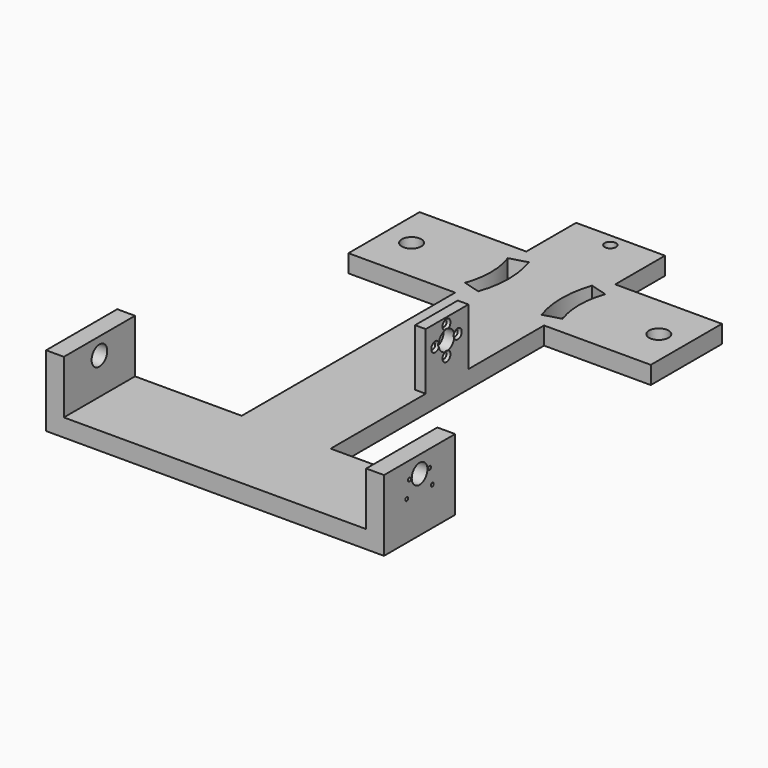
from build123d import *

# Parameters (mm, degrees)
F0_W            = 50
F0_H            = 150
F0_H_2          = 50
F0_W_2          = 60
F0_W_3          = 70
F0_H_3          = 35
F1_DEPTH        = 10
F2_W            = 10
F2_H            = 50
F3_DEPTH        = 30
F4_R            = 5.5
F5_DEPTH        = 190.001
F6_R            = 3.175
F7_DEPTH        = 10.001
F8_R            = 5.5
F9_DEPTH        = 10.001
F10_R           = 5.5
F11_DEPTH       = 10.001
F13_DEPTH       = 10.001
F14_W           = 6
F14_H           = 30
F15_DEPTH       = 32
F16_R           = 5.5
F17_DEPTH       = 76.001
F19_D           = 3.1
F19_CSINK_D     = 5.6
F19_CSINK_ANGLE = 90
F21_D           = 2
F21_DEPTH       = 30
F21_TIP         = 0.600860619


with BuildPart() as f1:
    # F0 (on Top) → F1 (new body)
    with BuildSketch(Plane.XY):
        Rectangle(F0_W, F0_H)
        with Locations((0, 100)):
            Rectangle(F0_W, F0_H_2)
        with Locations((55, 100)):
            Rectangle(F0_W_2, F0_H_2)
        with Locations((-55, 100)):
            Rectangle(F0_W_2, F0_H_2)
        with Locations((0, -100)):
            Rectangle(F0_W, F0_H_2)
        with Locations((60, -100)):
            Rectangle(F0_W_3, F0_H_2)
        with Locations((0, 142.5)):
            Rectangle(F0_W, F0_H_3)
        with Locations((-60, -100)):
            Rectangle(F0_W_3, F0_H_2)
    extrude(amount=F1_DEPTH)

    # F2 (on face) → F3 (join)
    with BuildSketch(Plane.XY.offset(10)):
        with Locations((-90, -100)):
            Rectangle(F2_W, F2_H)
        with Locations((90, -100)):
            Rectangle(F2_W, F2_H)
    extrude(amount=F3_DEPTH)

    # F4 (on face) → F5 (cut, through all)
    with BuildSketch(Plane(origin=(-95, 0, 0), x_dir=(0, -1, 0), z_dir=(-1, 0, 0))):
        with Locations((100, 30.5)):
            Circle(F4_R)
    extrude(amount=-F5_DEPTH, mode=Mode.SUBTRACT)

    # F6 (on face) → F7 (cut, through all)
    with BuildSketch(Plane.XY.offset(10)):
        with Locations((0, 152.825)):
            Circle(F6_R)
    extrude(amount=-F7_DEPTH, mode=Mode.SUBTRACT)

    # F8 (on face) → F9 (cut, through all)
    with BuildSketch(Plane.XY.offset(10)):
        with Locations((-69.5, 100)):
            Circle(F8_R)
    extrude(amount=-F9_DEPTH, mode=Mode.SUBTRACT)

    # F10 (on face) → F11 (cut, through all)
    with BuildSketch(Plane.XY.offset(10)):
        with Locations((69.5, 100)):
            Circle(F10_R)
    extrude(amount=-F11_DEPTH, mode=Mode.SUBTRACT)

    # F12 (on face) → F13 (cut, through all)
    with BuildSketch(Plane.XY.offset(10)):
        with BuildLine():
            Line((17.7911710483, 82.2515942001), (27.4237727452, 85))
            ThreePointArc((27.4237727452, 85), (24.83, 100), (27.4237727452, 115))
            Line((27.4237727452, 115), (17.7911710483, 117.7484057999))
            ThreePointArc((17.7911710483, 117.7484057999), (14.83, 100), (17.7911710483, 82.2515942001))
        make_face()
        with BuildLine():
            Line((-27.4237727452, 85), (-17.7911710483, 82.2515942001))
            ThreePointArc((-17.7911710483, 82.2515942001), (-14.83, 100), (-17.7911710483, 117.7484057999))
            Line((-17.7911710483, 117.7484057999), (-27.4237727452, 115))
            ThreePointArc((-27.4237727452, 115), (-24.83, 100), (-27.4237727452, 85))
        make_face()
    extrude(amount=-F13_DEPTH, mode=Mode.SUBTRACT)

    # F14 (on face) → F15 (join)
    with BuildSketch(Plane.XY.offset(10)):
        with Locations((22, 6.836565081)):
            Rectangle(F14_W, F14_H)
    extrude(amount=F15_DEPTH)

    # F16 (on face) → F17 (cut, through all)
    with BuildSketch(Plane(origin=(19, 0, 0), x_dir=(0, -1, 0), z_dir=(-1, 0, 0))):
        with Locations((-6.426565081, 30.5)):
            Circle(F16_R)
    extrude(amount=-F17_DEPTH, mode=Mode.SUBTRACT)

    # F19 (through all)
    with Locations(Plane.YZ.offset(25)):
        with Locations((6.426565081, 38.4), (14.326565081, 30.5), (6.426565081, 22.6), (-1.473434919, 30.5)):
            CounterSinkHole(F19_D / 2, F19_CSINK_D / 2, counter_sink_angle=F19_CSINK_ANGLE)

    # F21
    with Locations(Plane.YZ.offset(95)):
        with Locations((-107.1, 30.5), (-92.9, 30.5), (-91.0878232998, 21.4521767002), (-109.0478232998, 21.5878232998)):
            Hole(F21_D / 2, depth=F21_DEPTH)
            with Locations((0, 0, -(F21_DEPTH + F21_TIP / 2))):  # 118° drill point
                Cone(0, F21_D / 2, F21_TIP, mode=Mode.SUBTRACT)


solid = f1.part
